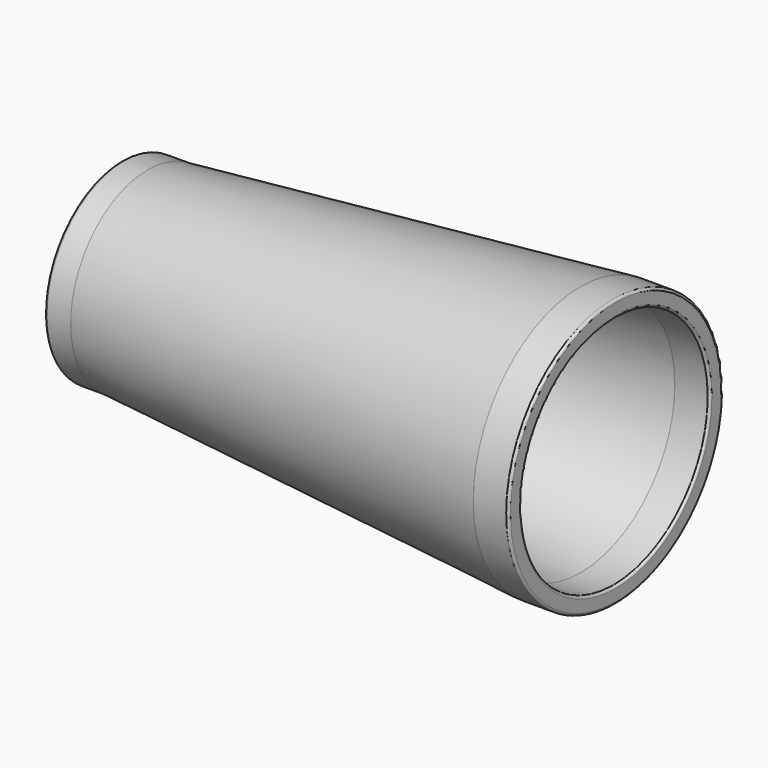
from build123d import *

# Parameters (mm, degrees)
F2_R     = 1.5
F3_DEPTH = 25


with BuildPart() as f1:
    # F0 (on Front) → F1 (revolve)
    with BuildSketch(Plane.XZ):
        with BuildLine():
            Line((-16.932182, 20.0479), (-16.932182, 17.5479))
            Line((-16.932182, 17.5479), (-16.932182, 14.845405))
            Line((-16.932182, 14.845405), (-16.932182, 0))
            Line((-16.932182, 0), (-13.932182, 0))
            Line((-13.932182, 0), (-13.932182, 17.0479))
            Line((-13.932182, 17.0479), (-11.432182, 17.0479))
            ThreePointArc((-11.432182, 17.0479), (-11.410373, 17.048375), (-11.388605, 17.049802))
            Line((-11.388605, 17.049802), (80.946732, 25.128097))
            ThreePointArc((80.946732, 25.128097), (80.9685, 25.129524), (80.99031, 25.13))
            Line((80.99031, 25.13), (87.99031, 25.13))
            ThreePointArc((87.99031, 25.13), (88.343863, 25.276447), (88.49031, 25.63))
            Line((88.49031, 25.63), (88.49031, 28.13))
            ThreePointArc((88.49031, 28.13), (88.343863, 28.483553), (87.99031, 28.63))
            Line((87.99031, 28.63), (80.99031, 28.63))
            ThreePointArc((80.99031, 28.63), (80.9685, 28.629524), (80.946732, 28.628097))
            Line((80.946732, 28.628097), (-11.388605, 20.549802))
            ThreePointArc((-11.388605, 20.549802), (-11.410373, 20.548375), (-11.432182, 20.5479))
            Line((-11.432182, 20.5479), (-16.432182, 20.5479))
            ThreePointArc((-16.432182, 20.5479), (-16.785736, 20.401453), (-16.932182, 20.0479))
        make_face()
    revolve(axis=Axis((23.239035, 0, 0), (1, 0, 0)))

    # F2 (on face) → F3 (cut)
    with BuildSketch(Plane(origin=(-16.932182, 0, 0), x_dir=(0, -1, 0), z_dir=(-1, 0, 0))):
        with Locations((0, 15)):
            Circle(F2_R)
        with Locations((-10.606602, 10.606602)):
            Circle(F2_R)
        with Locations((-15, 0)):
            Circle(F2_R)
        with Locations((-10.606602, -10.606602)):
            Circle(F2_R)
        with Locations((0, -15)):
            Circle(F2_R)
        with Locations((10.606602, -10.606602)):
            Circle(F2_R)
        with Locations((15, 0)):
            Circle(F2_R)
        with Locations((10.606602, 10.606602)):
            Circle(F2_R)
        with Locations((-4.407638, 10.078329)):
            Circle(F2_R)
        with Locations((-10.627673, 2.837705)):
            Circle(F2_R)
        with Locations((-8.844853, -6.539769)):
            Circle(F2_R)
        with Locations((-0.401678, -10.992664)):
            Circle(F2_R)
        with Locations((8.343968, -7.167859)):
            Circle(F2_R)
        with Locations((10.806436, 2.05449)):
            Circle(F2_R)
        with Locations((5.131438, 9.729766)):
            Circle(F2_R)
        with Locations((-4.829582, 5.067064)):
            Circle(F2_R)
        with Locations((-6.311487, -3.027396)):
            Circle(F2_R)
        with Locations((0.928868, -6.938098)):
            Circle(F2_R)
        with Locations((6.885559, -1.260584)):
            Circle(F2_R)
        with Locations((3.326642, 6.159014)):
            Circle(F2_R)
    extrude(amount=-F3_DEPTH, mode=Mode.SUBTRACT)


solid = f1.part
